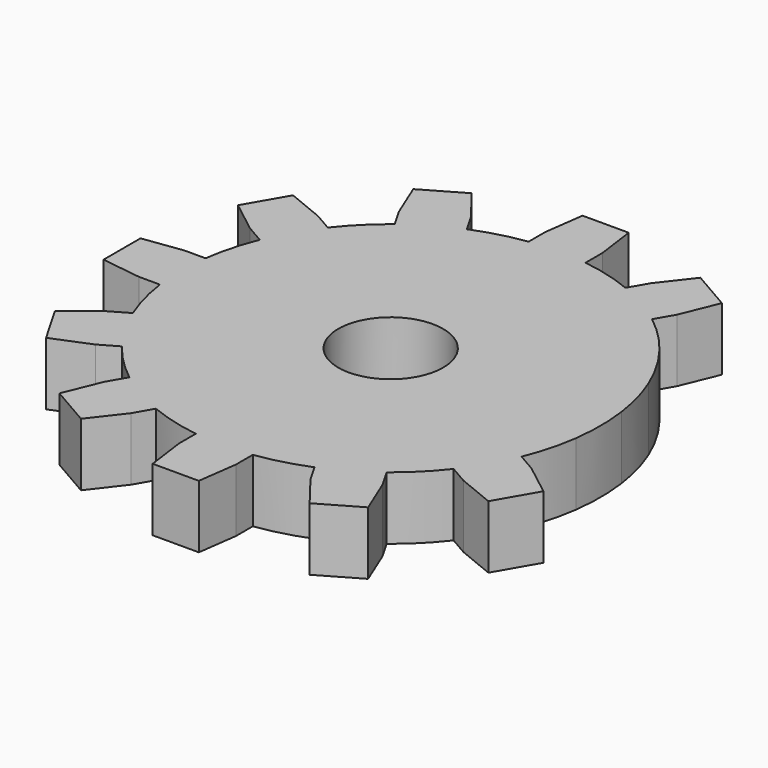
from build123d import *

# Parameters (mm, degrees)
F0_R     = 6.35
F1_DEPTH = 3.81


with BuildPart() as f1:
    # F0 (on Top) → F1 (new body, symmetric)
    with BuildSketch(Plane.XY):
        with BuildLine():
            Line((-22.269135, -16.838492), (-20.069431, -15.568492))
            ThreePointArc((-20.069431, -15.568492), (-17.960512, -17.960512), (-15.568492, -20.069431))
            Line((-15.568492, -20.069431), (-16.838492, -22.269135))
            Line((-16.838492, -22.269135), (-18.675675, -26.759218))
            Line((-18.675675, -26.759218), (-16.256, -28.156218))
            Line((-16.256, -28.156218), (-13.836325, -29.553218))
            Line((-13.836325, -29.553218), (-10.866391, -25.71713))
            Line((-10.866391, -25.71713), (-9.596391, -23.517425))
            ThreePointArc((-9.596391, -23.517425), (-6.574004, -24.534516), (-3.447994, -25.164883))
            Line((-3.447994, -25.164883), (-3.447994, -27.704883))
            Line((-3.447994, -27.704883), (-2.794, -32.512))
            Line((-2.794, -32.512), (0, -32.512))
            Line((0, -32.512), (2.794, -32.512))
            Line((2.794, -32.512), (3.447994, -27.704883))
            Line((3.447994, -27.704883), (3.447994, -25.164883))
            ThreePointArc((3.447994, -25.164883), (6.574004, -24.534516), (9.596391, -23.517425))
            Line((9.596391, -23.517425), (10.866391, -25.71713))
            Line((10.866391, -25.71713), (13.836325, -29.553218))
            Line((13.836325, -29.553218), (16.256, -28.156218))
            Line((16.256, -28.156218), (18.675675, -26.759218))
            Line((18.675675, -26.759218), (16.838492, -22.269135))
            Line((16.838492, -22.269135), (15.568492, -20.069431))
            ThreePointArc((15.568492, -20.069431), (17.960512, -17.960512), (20.069431, -15.568492))
            Line((20.069431, -15.568492), (22.269135, -16.838492))
            Line((22.269135, -16.838492), (26.759218, -18.675675))
            Line((26.759218, -18.675675), (28.156218, -16.256))
            Line((28.156218, -16.256), (29.553218, -13.836325))
            Line((29.553218, -13.836325), (25.71713, -10.866391))
            Line((25.71713, -10.866391), (23.517425, -9.596391))
            ThreePointArc((23.517425, -9.596391), (24.534516, -6.574004), (25.164883, -3.447994))
            ThreePointArc((25.164883, -3.447994), (25.4, 0), (25.164883, 3.447994))
            ThreePointArc((25.164883, 3.447994), (24.534516, 6.574004), (23.517425, 9.596391))
            ThreePointArc((23.517425, 9.596391), (21.997045, 12.7), (20.069431, 15.568492))
            ThreePointArc((20.069431, 15.568492), (17.960512, 17.960512), (15.568492, 20.069431))
            Line((15.568492, 20.069431), (16.838492, 22.269135))
            Line((16.838492, 22.269135), (18.675675, 26.759218))
            Line((18.675675, 26.759218), (16.256, 28.156218))
            Line((16.256, 28.156218), (13.836325, 29.553218))
            Line((13.836325, 29.553218), (10.866391, 25.71713))
            Line((10.866391, 25.71713), (9.596391, 23.517425))
            ThreePointArc((9.596391, 23.517425), (6.574004, 24.534516), (3.447994, 25.164883))
            Line((3.447994, 25.164883), (3.447994, 27.704883))
            Line((3.447994, 27.704883), (2.794, 32.512))
            Line((2.794, 32.512), (0, 32.512))
            Line((0, 32.512), (-2.794, 32.512))
            Line((-2.794, 32.512), (-3.447994, 27.704883))
            Line((-3.447994, 27.704883), (-3.447994, 25.164883))
            ThreePointArc((-3.447994, 25.164883), (-6.574004, 24.534516), (-9.596391, 23.517425))
            Line((-9.596391, 23.517425), (-10.866391, 25.71713))
            Line((-10.866391, 25.71713), (-13.836325, 29.553218))
            Line((-13.836325, 29.553218), (-16.256, 28.156218))
            Line((-16.256, 28.156218), (-18.675675, 26.759218))
            Line((-18.675675, 26.759218), (-16.838492, 22.269135))
            Line((-16.838492, 22.269135), (-15.568492, 20.069431))
            ThreePointArc((-15.568492, 20.069431), (-17.960512, 17.960512), (-20.069431, 15.568492))
            Line((-20.069431, 15.568492), (-22.269135, 16.838492))
            Line((-22.269135, 16.838492), (-26.759218, 18.675675))
            Line((-26.759218, 18.675675), (-28.156218, 16.256))
            Line((-28.156218, 16.256), (-29.553218, 13.836325))
            Line((-29.553218, 13.836325), (-25.71713, 10.866391))
            Line((-25.71713, 10.866391), (-23.517425, 9.596391))
            ThreePointArc((-23.517425, 9.596391), (-24.534516, 6.574004), (-25.164883, 3.447994))
            Line((-25.164883, 3.447994), (-27.704883, 3.447994))
            Line((-27.704883, 3.447994), (-32.512, 2.794))
            Line((-32.512, 2.794), (-32.512, 0))
            Line((-32.512, 0), (-32.512, -2.794))
            Line((-32.512, -2.794), (-27.704883, -3.447994))
            Line((-27.704883, -3.447994), (-25.164883, -3.447994))
            ThreePointArc((-25.164883, -3.447994), (-24.534516, -6.574004), (-23.517425, -9.596391))
            Line((-23.517425, -9.596391), (-25.71713, -10.866391))
            Line((-25.71713, -10.866391), (-29.553218, -13.836325))
            Line((-29.553218, -13.836325), (-28.156218, -16.256))
            Line((-28.156218, -16.256), (-26.759218, -18.675675))
            Line((-26.759218, -18.675675), (-22.269135, -16.838492))
        make_face()
        Circle(F0_R, mode=Mode.SUBTRACT)
    extrude(amount=F1_DEPTH, both=True)


solid = f1.part
